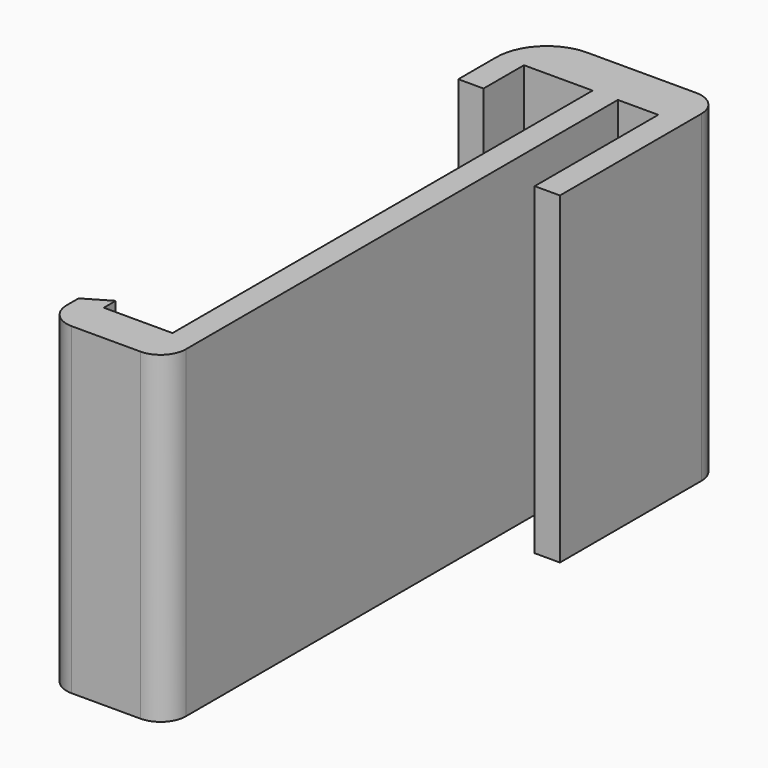
from build123d import *

# Parameters (mm, degrees)
F1_DEPTH = 40.64


with BuildPart() as f1:
    # F0 (on Top) → F1 (new body)
    with BuildSketch(Plane.XY):
        with BuildLine():
            Line((0, 45.589266), (0, -20.450734))
            Line((0, -20.450734), (-8.636, -20.450734))
            Line((-8.636, -20.450734), (-8.636, -18.583086))
            Line((-8.636, -18.583086), (-11.811, -20.450734))
            Line((-11.811, -20.450734), (-11.811, -22.318379))
            ThreePointArc((-11.811, -22.318379), (-10.881064, -24.563443), (-8.636, -25.493379))
            Line((-8.636, -25.493379), (0, -25.493379))
            ThreePointArc((0, -25.493379), (2.245064, -24.563443), (3.175, -22.318379))
            Line((3.175, -22.318379), (3.175, -20.450734))
            Line((3.175, -20.450734), (3.175, 45.589266))
            Line((3.175, 45.589266), (8.255, 45.589266))
            Line((8.255, 45.589266), (8.255, 26.165736))
            Line((8.255, 26.165736), (11.43, 26.165736))
            Line((11.43, 26.165736), (11.43, 48.390736))
            ThreePointArc((11.43, 48.390736), (10.500064, 50.6358), (8.255, 51.565736))
            Line((8.255, 51.565736), (3.175, 51.565736))
            Line((3.175, 51.565736), (0, 51.565736))
            Line((0, 51.565736), (-5.461, 51.565736))
            ThreePointArc((-5.461, 51.565736), (-9.951128, 49.705865), (-11.811, 45.215736))
            Line((-11.811, 45.215736), (-11.811, 39.239265))
            Line((-11.811, 39.239265), (-8.636, 39.239265))
            Line((-8.636, 39.239265), (-8.636, 45.589266))
            Line((-8.636, 45.589266), (0, 45.589266))
        make_face()
    extrude(amount=F1_DEPTH)


solid = f1.part
